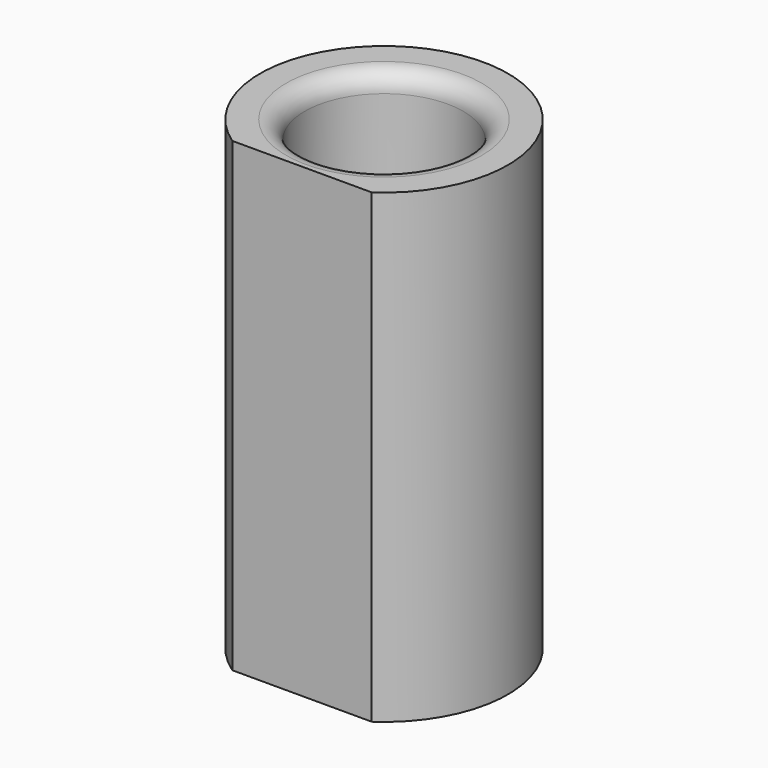
from build123d import *

# Parameters (mm, degrees)
F0_R     = 4.25
F1_DEPTH = 14
F2_DEPTH = 25
F3_R     = 1


with BuildPart() as f1:
    # F0 (on Top) → F1 (new body)
    with BuildSketch(Plane.XY):
        Circle(F0_R)
    extrude(amount=F1_DEPTH)

    # F0 (on Top) → F2 (join)
    with BuildSketch(Plane.XY):
        with BuildLine():
            Line((-3.737981, -5.5), (3.737981, -5.5))
            ThreePointArc((3.737981, -5.5), (0, 6.65), (-3.737981, -5.5))
        make_face()
        Circle(F0_R, mode=Mode.SUBTRACT)
    extrude(amount=F2_DEPTH)

    # F3
    f3_edges = [f1.edges().sort_by_distance(p)[0] for p in [
        (-4.25, 0, 14),
        (-4.25, 0, 25),
    ]]
    fillet(f3_edges, radius=F3_R)


solid = f1.part
